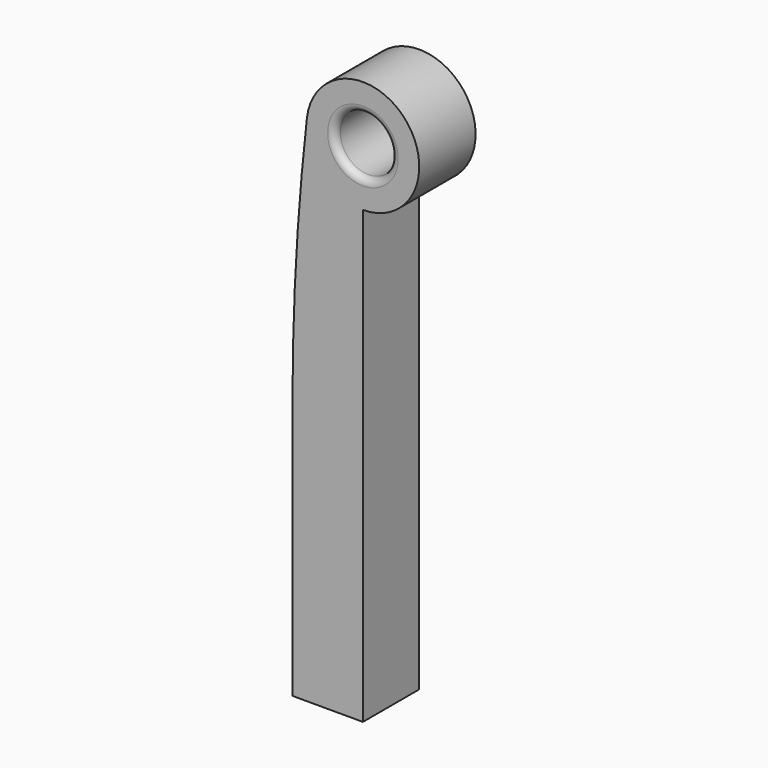
from build123d import *

# Parameters (mm, degrees)
F0_R     = 4
F1_DEPTH = 5
F2_R     = 1


with BuildPart() as f1:
    # F0 (on Front) → F1 (new body, symmetric)
    with BuildSketch(Plane.XZ):
        with BuildLine():
            Line((0, 36.575965), (0, 0))
            Line((0, 0), (10, 0))
            Line((10, 0), (10, 64))
            ThreePointArc((10, 64), (15.966731, 77.328988), (2.05084, 72.900471))
            ThreePointArc((2.05084, 72.900471), (0.513118, 54.767142), (0, 36.575965))
        make_face()
        with Locations((10, 72)):
            Circle(F0_R, mode=Mode.SUBTRACT)
    extrude(amount=F1_DEPTH, both=True)

    # F2
    f2_edges = [f1.edges().sort_by_distance(p)[0] for p in [
        (6, -5, 72),
        (6, 5, 72),
    ]]
    fillet(f2_edges, radius=F2_R)


solid = f1.part
